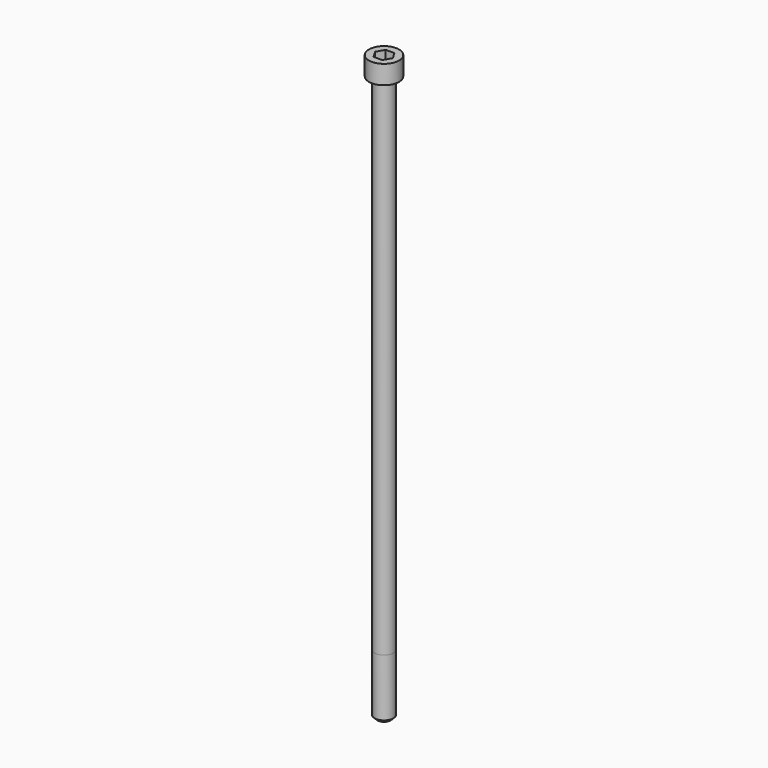
from build123d import *

# Parameters (mm, degrees)
POCKET_DEPTH = 8.07


with BuildPart() as part:
    # Sketch → Revolve (revolve)
    with BuildSketch(Plane.YZ):
        with BuildLine():
            Line((4.999, 0), (8, 0))
            Line((8, 0), (8, 9.97229))
            ThreePointArc((8, 9.97229), (7.991884, 9.991884), (7.97229, 10))
            Line((7.97229, 10), (0, 10))
            Line((0, -300), (0, 10))
            Line((3.5, -300), (0, -300))
            Line((5, -298.5), (3.5, -300))
            Line((5, -268), (5, -298.5))
            Line((4.999, 0), (5, -268))
        make_face()
    revolve(axis=Axis((0, 0, 0), (0, 0, 1)))

    # Sketch001 → Pocket (cut)
    with BuildSketch(Plane.XY.offset(10)):
        Polygon((4.659217, 0), (2.329608, 4.035), (-2.329608, 4.035), (-4.659217, 0), (-2.329608, -4.035), (2.329608, -4.035), align=None)
    extrude(amount=-POCKET_DEPTH, mode=Mode.SUBTRACT)


solid = part.part
